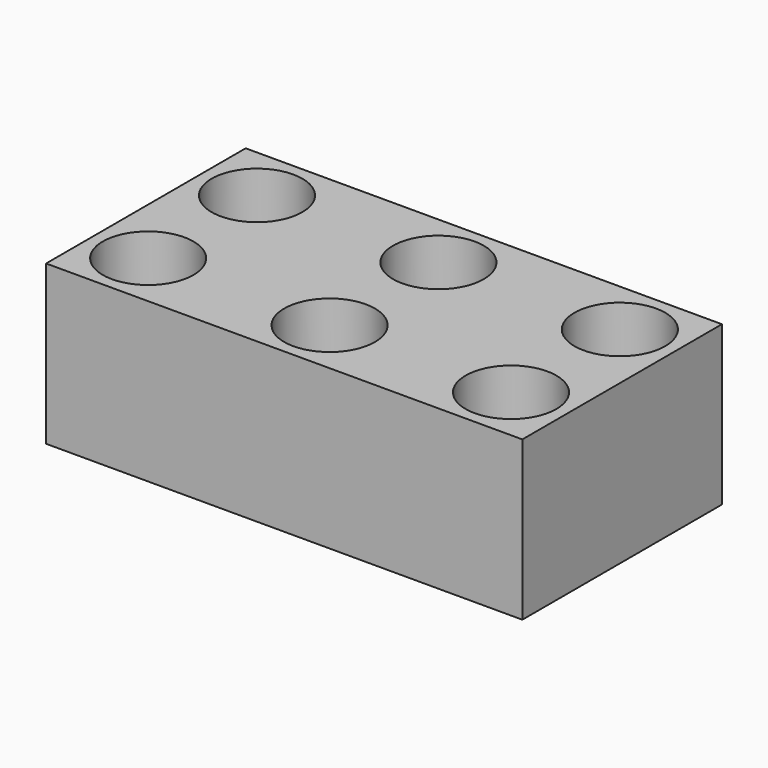
from build123d import *

# Parameters (mm, degrees)
SKETCH096_R      = 1
EXTRUDE013_DEPTH = 4
SKETCH095_R      = 1
EXTRUDE014_DEPTH = 4
SKETCH094_R      = 1
EXTRUDE012_DEPTH = 4
SKETCH093_W      = 10.5
SKETCH093_H      = 5.5
EXTRUDE011_DEPTH = 3.5


with BuildPart() as extrude013:
    # Sketch096 → Extrude013 (new body)
    with BuildSketch(Plane(origin=(8.25, 0.25, 0), x_dir=(1, 0, 0), z_dir=(0, 0, 1))):
        with Locations((1, 1)):
            Circle(SKETCH096_R)
        with Locations((1, 4)):
            Circle(SKETCH096_R)
    extrude(amount=EXTRUDE013_DEPTH)


with BuildPart() as extrude014:
    # Sketch095 → Extrude014 (new body)
    with BuildSketch(Plane(origin=(4.25, 0.25, 0), x_dir=(1, 0, 0), z_dir=(0, 0, 1))):
        with Locations((1, 1)):
            Circle(SKETCH095_R)
        with Locations((1, 4)):
            Circle(SKETCH095_R)
    extrude(amount=EXTRUDE014_DEPTH)


with BuildPart() as fusion008:
    # Sketch094 → Extrude012 (new body)
    with BuildSketch(Plane(origin=(0.25, 0.25, 0), x_dir=(1, 0, 0), z_dir=(0, 0, 1))):
        with Locations((1, 1)):
            Circle(SKETCH094_R)
        with Locations((1, 4)):
            Circle(SKETCH094_R)
    extrude(amount=EXTRUDE012_DEPTH)

    # Fusion008: union Extrude013, Extrude014
    add(extrude013.part)
    add(extrude014.part)


with BuildPart() as cut014:
    # Sketch093 → Extrude011 (new body)
    with BuildSketch(Plane.XY):
        with Locations((5.25, 2.75)):
            Rectangle(SKETCH093_W, SKETCH093_H)
    extrude(amount=EXTRUDE011_DEPTH)

    # Cut014: cut Fusion008
    add(fusion008.part, mode=Mode.SUBTRACT)


solid = cut014.part
